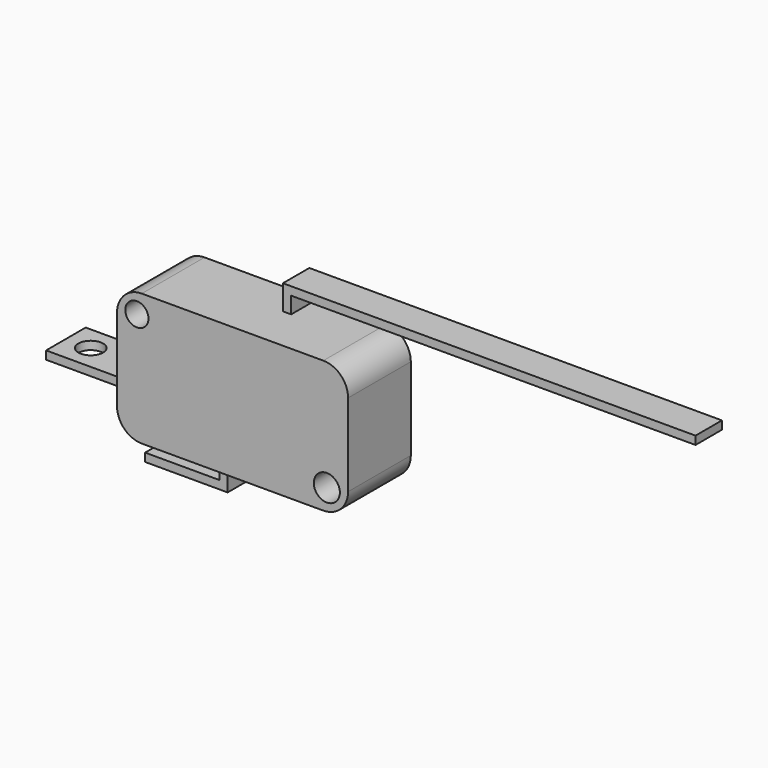
from build123d import *

# Parameters (mm, degrees)
F0_R      = 1.578967
F0_R_2    = 1.40429
F1_DEPTH  = 9.5
F2_W      = 6
F2_H      = 1
F3_DEPTH  = 10
F4_R      = 1.5
F5_DEPTH  = 25
F6_W      = 1
F6_H      = 6
F7_DEPTH  = 3
F8_W      = 6
F8_H      = 1
F9_DEPTH  = 9
F10_R     = 1.5
F11_DEPTH = 1
F12_W     = 1
F12_H     = 2
F13_DEPTH = 4


with BuildPart() as f1:
    # F0 (on Front) → F1 (new body)
    with BuildSketch(Plane.XZ):
        with BuildLine():
            Line((25, 0), (3, 0))
            ThreePointArc((3, 0), (0.87868, -0.87868), (0, -3))
            Line((0, -3), (0, -13))
            ThreePointArc((0, -13), (0.87868, -15.12132), (3, -16))
            Line((3, -16), (25, -16))
            ThreePointArc((25, -16), (27.12132, -15.12132), (28, -13))
            Line((28, -13), (28, -3))
            ThreePointArc((28, -3), (27.12132, -0.87868), (25, 0))
        make_face()
        with Locations((25.421033, -13.421033)):
            Circle(F0_R, mode=Mode.SUBTRACT)
        with Locations((2.40429, -2.40429)):
            Circle(F0_R_2, mode=Mode.SUBTRACT)
    extrude(amount=F1_DEPTH)

    # F2 (on face) → F3 (join)
    with BuildSketch(Plane(origin=(0, 0, 0), x_dir=(0, -1, 0), z_dir=(-1, 0, 0))):
        with Locations((4.75, -11.5)):
            Rectangle(F2_W, F2_H)
    extrude(amount=F3_DEPTH)

    # F4 (on face) → F5 (cut)
    with BuildSketch(Plane.XY.offset(-11)):
        with Locations((-7, -4.735485)):
            Circle(F4_R)
    extrude(amount=-F5_DEPTH, mode=Mode.SUBTRACT)

    # F6 (on face) → F7 (join)
    with BuildSketch(Plane(origin=(0, 0, -16), x_dir=(1, 0, 0), z_dir=(0, 0, -1))):
        with Locations((11.5, 4.75)):
            Rectangle(F6_W, F6_H)
    extrude(amount=F7_DEPTH)

    # F8 (on face) → F9 (join)
    with BuildSketch(Plane(origin=(11, 0, 0), x_dir=(0, -1, 0), z_dir=(-1, 0, 0))):
        with Locations((4.75, -18.5)):
            Rectangle(F8_W, F8_H)
    extrude(amount=F9_DEPTH)

    # F10 (on face) → F11 (cut)
    with BuildSketch(Plane(origin=(0, 0, -19), x_dir=(1, 0, 0), z_dir=(0, 0, -1))):
        with Locations((4.381761, 4.75)):
            Circle(F10_R)
    extrude(amount=-F11_DEPTH, mode=Mode.SUBTRACT)


with BuildPart() as f13:
    # F12 (on face) → F13 (new body)
    with BuildSketch(Plane(origin=(0, 0, 0), x_dir=(-1, 0, 0), z_dir=(0, 1, 0))):
        Polygon((-16.700253, 2), (-15.700253, 2), (-15.700253, 3), (-65.700253, 3), (-65.700253, 2), align=None)
        with Locations((-16.200253, 1)):
            Rectangle(F12_W, F12_H)
    extrude(amount=-F13_DEPTH)


solid = Compound([f1.part, f13.part])
